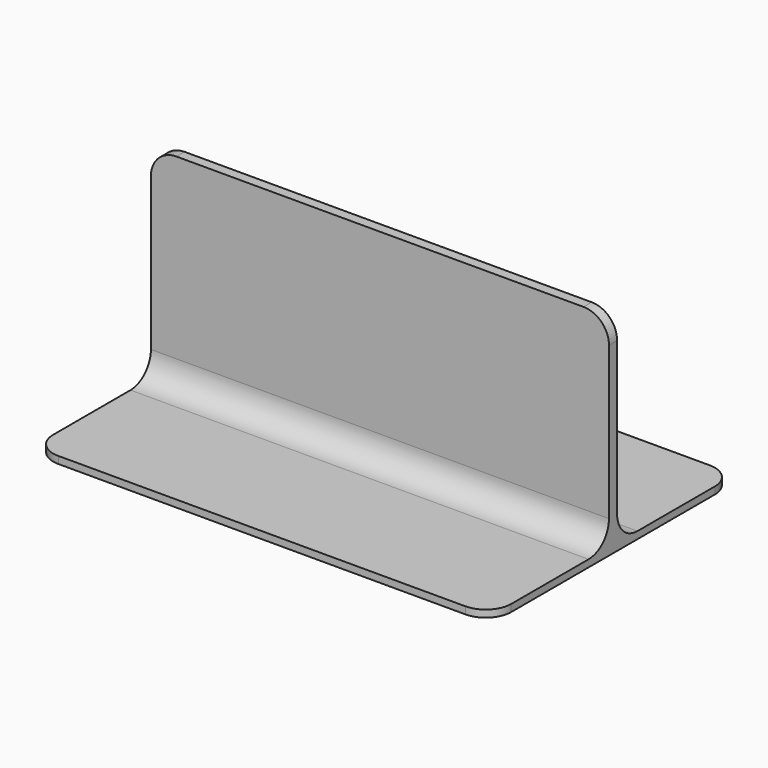
from build123d import *

# Parameters (mm, degrees)
F0_W     = 2
F0_H     = 40
F1_DEPTH = 45
F2_R     = 5
F3_R     = 5


with BuildPart() as f1:
    # F0 (on Right) → F1 (new body, symmetric)
    with BuildSketch(Plane.YZ):
        with Locations((0, 20.7)):
            Rectangle(F0_W, F0_H)
        Polygon((30, -0.7), (30, 0.7), (1, 0.7), (-1, 0.7), (-30, 0.7), (-30, -0.7), align=None)
    extrude(amount=F1_DEPTH, both=True)

    # F2
    f2_edges = [f1.edges().sort_by_distance(p)[0] for p in [
        (0, -1, 0.7),
        (0, 1, 0.7),
    ]]
    fillet(f2_edges, radius=F2_R)

    # F3
    f3_edges = [f1.edges().sort_by_distance(p)[0] for p in [
        (-45, -30, 0),
        (-45, 30, 0),
        (45, 30, 0),
        (45, -30, 0),
        (-45, 0, 40.7),
        (45, 0, 40.7),
    ]]
    fillet(f3_edges, radius=F3_R)


solid = f1.part
